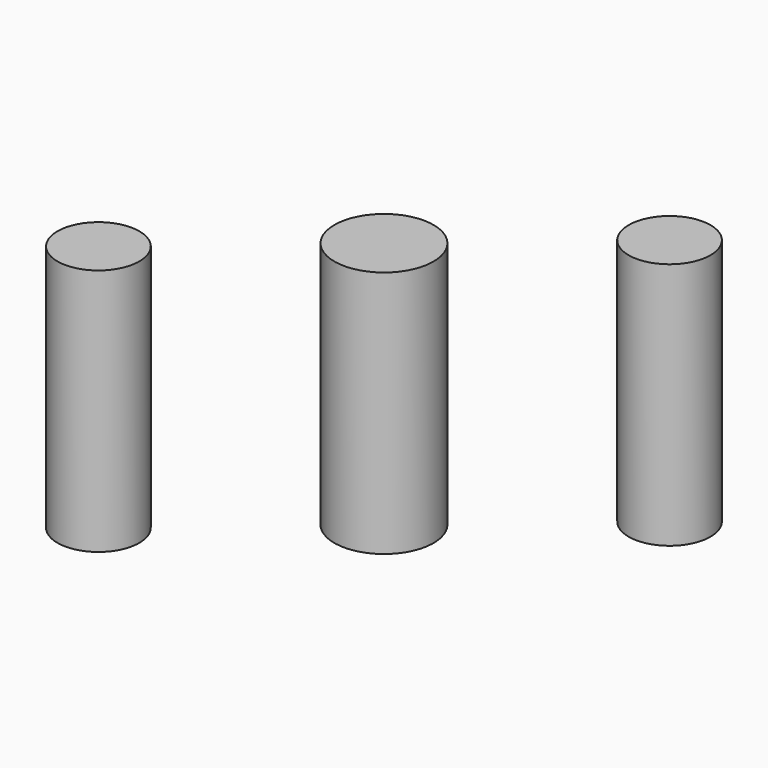
from build123d import *

# Parameters (mm, degrees)
CYLINDER010029_R                                        = 2
CYLINDER010029_DEPTH                                    = 10
CYLINDER010028_R                                        = 1.65
CYLINDER010028_DEPTH                                    = 10
CYLINDER010027_R                                        = 1.65
CYLINDER010027_DEPTH                                    = 10
FUSION004006005010017004019022003002037_PLACEMENT_ANGLE = 40


with BuildPart() as cylinder038:
    # Cylinder010029 → Cylinder010029 (new body)
    with BuildSketch(Plane.XY):
        Circle(CYLINDER010029_R)
    extrude(amount=CYLINDER010029_DEPTH)


with BuildPart() as cylinder037:
    # Cylinder010028 → Cylinder010028 (new body)
    with BuildSketch(Plane(origin=(9, 0, 0), x_dir=(1, 0, 0), z_dir=(0, 0, 1))):
        Circle(CYLINDER010028_R)
    extrude(amount=CYLINDER010028_DEPTH)


with BuildPart() as bltouch_hole:
    # Cylinder010027 → Cylinder010027 (new body)
    with BuildSketch(Plane(origin=(-9, 0, 0), x_dir=(1, 0, 0), z_dir=(0, 0, 1))):
        Circle(CYLINDER010027_R)
    extrude(amount=CYLINDER010027_DEPTH)

    # Fusion004006005010017004011: union Cylinder037
    add(cylinder037.part)

    # Fusion004006005010017004019022003002037: union Cylinder038
    add(cylinder038.part)


with BuildPart() as bltouch_hole_1:
    # Fusion004006005010017004019022003002037 placement: moved
    add(bltouch_hole.part.moved(Location((10.541039, -19.542133, 8))).rotate(Axis((10.541039, -19.542133, 8), (0, 0, 1)), FUSION004006005010017004019022003002037_PLACEMENT_ANGLE))


solid = bltouch_hole_1.part
